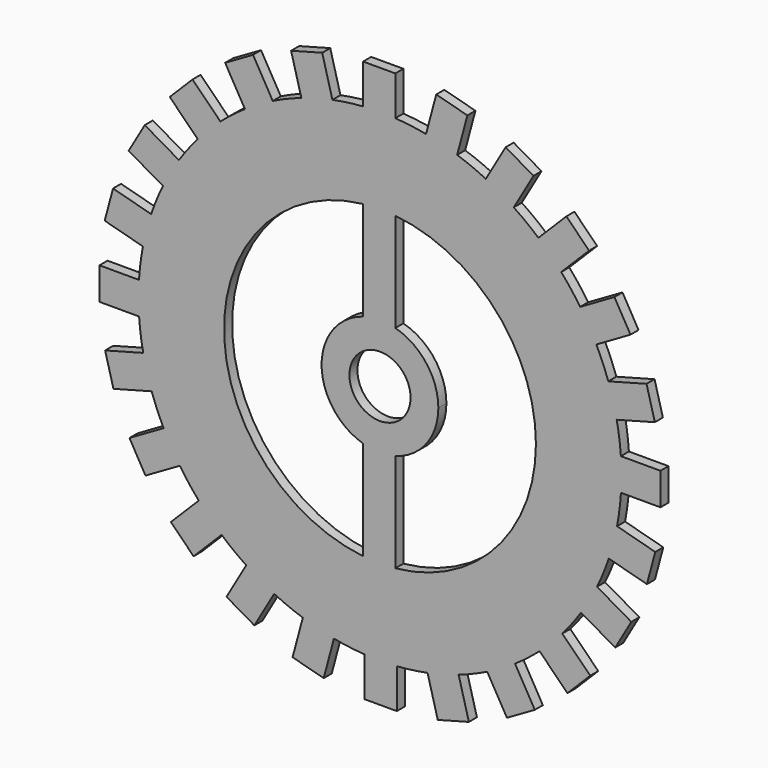
from build123d import *

# Parameters (mm, degrees)
F0_R     = 9.6465824974
F1_DEPTH = 3.175


with BuildPart() as f1:
    # F0 (on Front) → F1 (new body)
    with BuildSketch(Plane.XZ):
        with BuildLine():
            ThreePointArc((4.8366556875, 76.0463461434), (-0.2438868924, 76.1996097049), (-5.3233443125, 76.0138277245))
            ThreePointArc((-5.3233443125, 76.0138277245), (-10.1878453097, 75.5158778532), (-15.0103920509, 74.7069483414))
            ThreePointArc((-15.0103920509, 74.7069483414), (-19.9574868691, 73.5400483945), (-24.8157820599, 72.0459364625))
            ThreePointArc((-24.8157820599, 72.0459364625), (-29.3856502949, 70.3059283186), (-33.8345063769, 68.2763954689))
            ThreePointArc((-33.8345063769, 68.2763954689), (-38.311017097, 65.8688543167), (-42.6170652699, 63.1682336921))
            ThreePointArc((-42.6170652699, 63.1682336921), (-46.5808717746, 60.3047459551), (-50.3528550075, 57.1929190774))
            ThreePointArc((-50.3528550075, 57.1929190774), (-54.0537148216, 53.7088066706), (-57.5140659099, 49.985720186))
            ThreePointArc((-57.5140659099, 49.985720186), (-60.6016838214, 46.1938948131), (-63.4397397814, 42.2118397665))
            ThreePointArc((-63.4397397814, 42.2118397665), (-66.1127412091, 37.888592608), (-68.4915780045, 33.3967624546))
            ThreePointArc((-68.4915780045, 33.3967624546), (-70.4925912648, 28.9350060786), (-72.2033111283, 24.3540933338))
            ThreePointArc((-72.2033111283, 24.3540933338), (-73.6662935398, 19.4863335729), (-74.8015022459, 14.5318705526))
            ThreePointArc((-74.8015022459, 14.5318705526), (-75.579545108, 9.7042444972), (-76.0463461434, 4.8366556875))
            ThreePointArc((-76.0463461434, 4.8366556875), (-76.1996097049, -0.2438868924), (-76.0138277245, -5.3233443125))
            ThreePointArc((-76.0138277245, -5.3233443125), (-75.5158778532, -10.1878453097), (-74.7069483414, -15.0103920509))
            ThreePointArc((-74.7069483414, -15.0103920509), (-73.5400483945, -19.9574868691), (-72.0459364625, -24.8157820599))
            ThreePointArc((-72.0459364625, -24.8157820599), (-70.3059283186, -29.3856502949), (-68.2763954689, -33.8345063769))
            ThreePointArc((-68.2763954689, -33.8345063769), (-65.8688543167, -38.311017097), (-63.1682336921, -42.6170652699))
            ThreePointArc((-63.1682336921, -42.6170652699), (-60.3047459551, -46.5808717746), (-57.1929190774, -50.3528550075))
            ThreePointArc((-57.1929190774, -50.3528550075), (-53.7088066706, -54.0537148216), (-49.985720186, -57.5140659099))
            ThreePointArc((-49.985720186, -57.5140659099), (-46.1938948131, -60.6016838214), (-42.2118397665, -63.4397397814))
            ThreePointArc((-42.2118397665, -63.4397397814), (-37.888592608, -66.1127412091), (-33.3967624546, -68.4915780045))
            ThreePointArc((-33.3967624546, -68.4915780045), (-28.9350060786, -70.4925912648), (-24.3540933338, -72.2033111283))
            ThreePointArc((-24.3540933338, -72.2033111283), (-19.4863335729, -73.6662935398), (-14.5318705526, -74.8015022459))
            ThreePointArc((-14.5318705526, -74.8015022459), (-9.7042444972, -75.579545108), (-4.8366556875, -76.0463461434))
            ThreePointArc((-4.8366556875, -76.0463461434), (0.2438868924, -76.1996097049), (5.3233443125, -76.0138277245))
            ThreePointArc((5.3233443125, -76.0138277245), (10.1878453097, -75.5158778532), (15.0103920509, -74.7069483414))
            ThreePointArc((15.0103920509, -74.7069483414), (19.9574868691, -73.5400483945), (24.8157820599, -72.0459364625))
            ThreePointArc((24.8157820599, -72.0459364625), (29.3856502949, -70.3059283186), (33.8345063769, -68.2763954689))
            ThreePointArc((33.8345063769, -68.2763954689), (38.311017097, -65.8688543167), (42.6170652699, -63.1682336921))
            ThreePointArc((42.6170652699, -63.1682336921), (46.5808717746, -60.3047459551), (50.3528550075, -57.1929190774))
            ThreePointArc((50.3528550075, -57.1929190774), (54.0537148216, -53.7088066706), (57.5140659099, -49.985720186))
            ThreePointArc((57.5140659099, -49.985720186), (60.6016838214, -46.1938948131), (63.4397397814, -42.2118397665))
            ThreePointArc((63.4397397814, -42.2118397665), (66.1127412091, -37.888592608), (68.4915780045, -33.3967624546))
            ThreePointArc((68.4915780045, -33.3967624546), (70.4925912648, -28.9350060786), (72.2033111283, -24.3540933338))
            ThreePointArc((72.2033111283, -24.3540933338), (73.6662935398, -19.4863335729), (74.8015022459, -14.5318705526))
            ThreePointArc((74.8015022459, -14.5318705526), (75.579545108, -9.7042444972), (76.0463461434, -4.8366556875))
            ThreePointArc((76.0463461434, -4.8366556875), (76.1615768486, -2.4195478786), (76.2, 0))
            ThreePointArc((76.2, 0), (76.1534427082, 2.6632994004), (76.0138277245, 5.3233443125))
            ThreePointArc((76.0138277245, 5.3233443125), (75.5158778532, 10.1878453097), (74.7069483414, 15.0103920509))
            ThreePointArc((74.7069483414, 15.0103920509), (73.5400483945, 19.9574868691), (72.0459364625, 24.8157820599))
            ThreePointArc((72.0459364625, 24.8157820599), (70.3059283186, 29.3856502949), (68.2763954689, 33.8345063769))
            ThreePointArc((68.2763954689, 33.8345063769), (65.8688543167, 38.311017097), (63.1682336921, 42.6170652699))
            ThreePointArc((63.1682336921, 42.6170652699), (60.3047459551, 46.5808717746), (57.1929190774, 50.3528550075))
            ThreePointArc((57.1929190774, 50.3528550075), (53.7088066706, 54.0537148216), (49.985720186, 57.5140659099))
            ThreePointArc((49.985720186, 57.5140659099), (46.1938948131, 60.6016838214), (42.2118397665, 63.4397397814))
            ThreePointArc((42.2118397665, 63.4397397814), (37.888592608, 66.1127412091), (33.3967624546, 68.4915780045))
            ThreePointArc((33.3967624546, 68.4915780045), (28.9350060786, 70.4925912648), (24.3540933338, 72.2033111283))
            ThreePointArc((24.3540933338, 72.2033111283), (19.4863335729, 73.6662935398), (14.5318705526, 74.8015022459))
            ThreePointArc((14.5318705526, 74.8015022459), (9.7042444972, 75.579545108), (4.8366556875, 76.0463461434))
        make_face()
        with BuildLine():
            ThreePointArc((-5.3233443125, 48.920956801), (-0.2446514329, 49.2091267416), (4.8366556875, 48.9714689463))
            ThreePointArc((4.8366556875, 48.9714689463), (36.4664815494, 33.0423021656), (49.2097349007, 0))
            ThreePointArc((49.2097349007, 0), (36.4664815494, -33.0423021656), (4.8366556875, -48.9714689463))
            ThreePointArc((4.8366556875, -48.9714689463), (-0.2446514329, -49.2091267416), (-5.3233443125, -48.920956801))
            ThreePointArc((-5.3233443125, -48.920956801), (-49.2097349007, 0), (-5.3233443125, 48.920956801))
        make_face(mode=Mode.SUBTRACT)
        with BuildLine():
            ThreePointArc((4.8366556875, -17.7731514304), (14.6350085707, -11.1845730424), (18.4195046081, 0))
            ThreePointArc((18.4195046081, 0), (14.6350085707, 11.1845730424), (4.8366556875, 17.7731514304))
            ThreePointArc((4.8366556875, 17.7731514304), (-0.2531647989, 18.4177647284), (-5.3233443125, 17.6334952672))
            ThreePointArc((-5.3233443125, 17.6334952672), (-18.4195046081, 0), (-5.3233443125, -17.6334952672))
            ThreePointArc((-5.3233443125, -17.6334952672), (-0.2531647989, -18.4177647284), (4.8366556875, -17.7731514304))
        make_face()
        Circle(F0_R, mode=Mode.SUBTRACT)
        with BuildLine():
            ThreePointArc((-5.3233443125, 17.6334952672), (-0.2531647989, 18.4177647284), (4.8366556875, 17.7731514304))
            Line((4.8366556875, 17.7731514304), (4.8366556875, 48.9714689463))
            ThreePointArc((4.8366556875, 48.9714689463), (-0.2446514329, 49.2091267416), (-5.3233443125, 48.920956801))
            Line((-5.3233443125, 48.920956801), (-5.3233443125, 17.6334952672))
        make_face()
        with BuildLine():
            Line((4.8366556875, -48.9714689463), (4.8366556875, -17.7731514304))
            ThreePointArc((4.8366556875, -17.7731514304), (-0.2531647989, -18.4177647284), (-5.3233443125, -17.6334952672))
            Line((-5.3233443125, -17.6334952672), (-5.3233443125, -48.920956801))
            ThreePointArc((-5.3233443125, -48.920956801), (-0.2446514329, -49.2091267416), (4.8366556875, -48.9714689463))
        make_face()
        with BuildLine():
            ThreePointArc((5.3233443125, -76.0138277245), (0.2438868924, -76.1996097049), (-4.8366556875, -76.0463461434))
            Line((-4.8366556875, -76.0463461434), (-4.8366556875, -88.5005375114))
            Line((-4.8366556875, -88.5005375114), (5.3233443125, -88.5005375114))
            Line((5.3233443125, -88.5005375114), (5.3233443125, -76.0138277245))
        make_face()
        with BuildLine():
            Line((28.0475803634, -84.107171931), (24.8157820599, -72.0459364625))
            ThreePointArc((24.8157820599, -72.0459364625), (19.9574868691, -73.5400483945), (15.0103920509, -74.7069483414))
            Line((15.0103920509, -74.7069483414), (18.2337739683, -86.7367734293))
            Line((18.2337739683, -86.7367734293), (28.0475803634, -84.107171931))
        make_face()
        with BuildLine():
            Line((48.8604201634, -73.9820415772), (42.6170652699, -63.1682336921))
            ThreePointArc((42.6170652699, -63.1682336921), (38.311017097, -65.8688543167), (33.8345063769, -68.2763954689))
            Line((33.8345063769, -68.2763954689), (40.0616020609, -79.0620415772))
            Line((40.0616020609, -79.0620415772), (48.8604201634, -73.9820415772))
        make_face()
        with BuildLine():
            Line((66.3435030749, -58.815157351), (57.5140659099, -49.985720186))
            ThreePointArc((57.5140659099, -49.985720186), (54.0537148216, -53.7088066706), (50.3528550075, -57.1929190774))
            Line((50.3528550075, -57.1929190774), (59.1592981781, -65.9993622479))
            Line((59.1592981781, -65.9993622479), (66.3435030749, -58.815157351))
        make_face()
        with BuildLine():
            Line((79.3053858897, -39.640117348), (68.4915780045, -33.3967624546))
            ThreePointArc((68.4915780045, -33.3967624546), (66.1127412091, -37.888592608), (63.4397397814, -42.2118397665))
            Line((63.4397397814, -42.2118397665), (74.2253858897, -48.4389354505))
            Line((74.2253858897, -48.4389354505), (79.3053858897, -39.640117348))
        make_face()
        with BuildLine():
            Line((86.8627377144, -17.7636688561), (74.8015022459, -14.5318705526))
            ThreePointArc((74.8015022459, -14.5318705526), (73.6662935398, -19.4863335729), (72.2033111283, -24.3540933338))
            Line((72.2033111283, -24.3540933338), (84.2331362162, -27.5774752512))
            Line((84.2331362162, -27.5774752512), (86.8627377144, -17.7636688561))
        make_face()
        with BuildLine():
            Line((88.5005375114, 5.3233443125), (76.0138277245, 5.3233443125))
            ThreePointArc((76.0138277245, 5.3233443125), (76.1534427082, 2.6632994004), (76.2, 0))
            ThreePointArc((76.2, 0), (76.1615768486, -2.4195478786), (76.0463461434, -4.8366556875))
            Line((76.0463461434, -4.8366556875), (88.5005375114, -4.8366556875))
            Line((88.5005375114, -4.8366556875), (88.5005375114, 5.3233443125))
        make_face()
        with BuildLine():
            Line((84.107171931, 28.0475803634), (72.0459364625, 24.8157820599))
            ThreePointArc((72.0459364625, 24.8157820599), (73.5400483945, 19.9574868691), (74.7069483414, 15.0103920509))
            Line((74.7069483414, 15.0103920509), (86.7367734293, 18.2337739683))
            Line((86.7367734293, 18.2337739683), (84.107171931, 28.0475803634))
        make_face()
        with BuildLine():
            Line((73.9820415772, 48.8604201634), (63.1682336921, 42.6170652699))
            ThreePointArc((63.1682336921, 42.6170652699), (65.8688543167, 38.311017097), (68.2763954689, 33.8345063769))
            Line((68.2763954689, 33.8345063769), (79.0620415772, 40.0616020609))
            Line((79.0620415772, 40.0616020609), (73.9820415772, 48.8604201634))
        make_face()
        with BuildLine():
            Line((39.640117348, 79.3053858897), (33.3967624546, 68.4915780045))
            ThreePointArc((33.3967624546, 68.4915780045), (37.888592608, 66.1127412091), (42.2118397665, 63.4397397814))
            Line((42.2118397665, 63.4397397814), (48.4389354505, 74.2253858897))
            Line((48.4389354505, 74.2253858897), (39.640117348, 79.3053858897))
        make_face()
        with BuildLine():
            Line((17.7636688561, 86.8627377144), (14.5318705526, 74.8015022459))
            ThreePointArc((14.5318705526, 74.8015022459), (19.4863335729, 73.6662935398), (24.3540933338, 72.2033111283))
            Line((24.3540933338, 72.2033111283), (27.5774752512, 84.2331362162))
            Line((27.5774752512, 84.2331362162), (17.7636688561, 86.8627377144))
        make_face()
        with BuildLine():
            Line((58.815157351, 66.3435030749), (49.985720186, 57.5140659099))
            ThreePointArc((49.985720186, 57.5140659099), (53.7088066706, 54.0537148216), (57.1929190774, 50.3528550075))
            Line((57.1929190774, 50.3528550075), (65.9993622479, 59.1592981781))
            Line((65.9993622479, 59.1592981781), (58.815157351, 66.3435030749))
        make_face()
        with BuildLine():
            Line((-5.3233443125, 88.5005375114), (-5.3233443125, 76.0138277245))
            ThreePointArc((-5.3233443125, 76.0138277245), (-0.2438868924, 76.1996097049), (4.8366556875, 76.0463461434))
            Line((4.8366556875, 76.0463461434), (4.8366556875, 88.5005375114))
            Line((4.8366556875, 88.5005375114), (-5.3233443125, 88.5005375114))
        make_face()
        with BuildLine():
            ThreePointArc((-24.8157820599, 72.0459364625), (-19.9574868691, 73.5400483945), (-15.0103920509, 74.7069483414))
            Line((-15.0103920509, 74.7069483414), (-18.2337739683, 86.7367734293))
            Line((-18.2337739683, 86.7367734293), (-28.0475803634, 84.107171931))
            Line((-28.0475803634, 84.107171931), (-24.8157820599, 72.0459364625))
        make_face()
        with BuildLine():
            ThreePointArc((-42.6170652699, 63.1682336921), (-38.311017097, 65.8688543167), (-33.8345063769, 68.2763954689))
            Line((-33.8345063769, 68.2763954689), (-40.0616020609, 79.0620415772))
            Line((-40.0616020609, 79.0620415772), (-48.8604201634, 73.9820415772))
            Line((-48.8604201634, 73.9820415772), (-42.6170652699, 63.1682336921))
        make_face()
        with BuildLine():
            ThreePointArc((-57.5140659099, 49.985720186), (-54.0537148216, 53.7088066706), (-50.3528550075, 57.1929190774))
            Line((-50.3528550075, 57.1929190774), (-59.1592981781, 65.9993622479))
            Line((-59.1592981781, 65.9993622479), (-66.3435030749, 58.815157351))
            Line((-66.3435030749, 58.815157351), (-57.5140659099, 49.985720186))
        make_face()
        with BuildLine():
            ThreePointArc((-68.4915780045, 33.3967624546), (-66.1127412091, 37.888592608), (-63.4397397814, 42.2118397665))
            Line((-63.4397397814, 42.2118397665), (-74.2253858897, 48.4389354505))
            Line((-74.2253858897, 48.4389354505), (-79.3053858897, 39.640117348))
            Line((-79.3053858897, 39.640117348), (-68.4915780045, 33.3967624546))
        make_face()
        with BuildLine():
            ThreePointArc((-74.8015022459, 14.5318705526), (-73.6662935398, 19.4863335729), (-72.2033111283, 24.3540933338))
            Line((-72.2033111283, 24.3540933338), (-84.2331362162, 27.5774752512))
            Line((-84.2331362162, 27.5774752512), (-86.8627377144, 17.7636688561))
            Line((-86.8627377144, 17.7636688561), (-74.8015022459, 14.5318705526))
        make_face()
        with BuildLine():
            ThreePointArc((-76.0138277245, -5.3233443125), (-76.1996097049, -0.2438868924), (-76.0463461434, 4.8366556875))
            Line((-76.0463461434, 4.8366556875), (-88.5005375114, 4.8366556875))
            Line((-88.5005375114, 4.8366556875), (-88.5005375114, -5.3233443125))
            Line((-88.5005375114, -5.3233443125), (-76.0138277245, -5.3233443125))
        make_face()
        with BuildLine():
            ThreePointArc((-72.0459364625, -24.8157820599), (-73.5400483945, -19.9574868691), (-74.7069483414, -15.0103920509))
            Line((-74.7069483414, -15.0103920509), (-86.7367734293, -18.2337739683))
            Line((-86.7367734293, -18.2337739683), (-84.107171931, -28.0475803634))
            Line((-84.107171931, -28.0475803634), (-72.0459364625, -24.8157820599))
        make_face()
        with BuildLine():
            ThreePointArc((-63.1682336921, -42.6170652699), (-65.8688543167, -38.311017097), (-68.2763954689, -33.8345063769))
            Line((-68.2763954689, -33.8345063769), (-79.0620415772, -40.0616020609))
            Line((-79.0620415772, -40.0616020609), (-73.9820415772, -48.8604201634))
            Line((-73.9820415772, -48.8604201634), (-63.1682336921, -42.6170652699))
        make_face()
        with BuildLine():
            ThreePointArc((-49.985720186, -57.5140659099), (-53.7088066706, -54.0537148216), (-57.1929190774, -50.3528550075))
            Line((-57.1929190774, -50.3528550075), (-65.9993622479, -59.1592981781))
            Line((-65.9993622479, -59.1592981781), (-58.815157351, -66.3435030749))
            Line((-58.815157351, -66.3435030749), (-49.985720186, -57.5140659099))
        make_face()
        with BuildLine():
            ThreePointArc((-33.3967624546, -68.4915780045), (-37.888592608, -66.1127412091), (-42.2118397665, -63.4397397814))
            Line((-42.2118397665, -63.4397397814), (-48.4389354505, -74.2253858897))
            Line((-48.4389354505, -74.2253858897), (-39.640117348, -79.3053858897))
            Line((-39.640117348, -79.3053858897), (-33.3967624546, -68.4915780045))
        make_face()
        with BuildLine():
            ThreePointArc((-14.5318705526, -74.8015022459), (-19.4863335729, -73.6662935398), (-24.3540933338, -72.2033111283))
            Line((-24.3540933338, -72.2033111283), (-27.5774752512, -84.2331362162))
            Line((-27.5774752512, -84.2331362162), (-17.7636688561, -86.8627377144))
            Line((-17.7636688561, -86.8627377144), (-14.5318705526, -74.8015022459))
        make_face()
    extrude(amount=F1_DEPTH)


solid = f1.part
